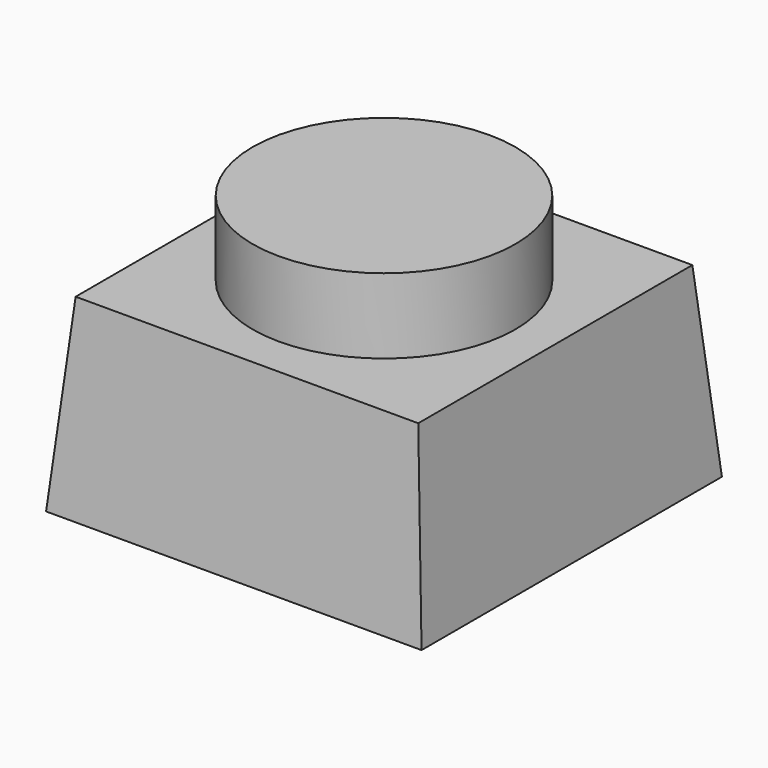
from build123d import *

# Parameters (mm, degrees)
F0_W     = 100
F0_H     = 100
F1_DEPTH = 50
F1_TAPER = 5
F2_R     = 35
F3_DEPTH = 20


with BuildPart() as f1:
    # F0 (on Top) → F1 (new body)
    with BuildSketch(Plane.XY):
        Rectangle(F0_W, F0_H)
    extrude(amount=F1_DEPTH, taper=F1_TAPER)

    # F2 (on face) → F3 (join)
    with BuildSketch(Plane.XY.offset(50)):
        Circle(F2_R)
    extrude(amount=F3_DEPTH)


solid = f1.part
